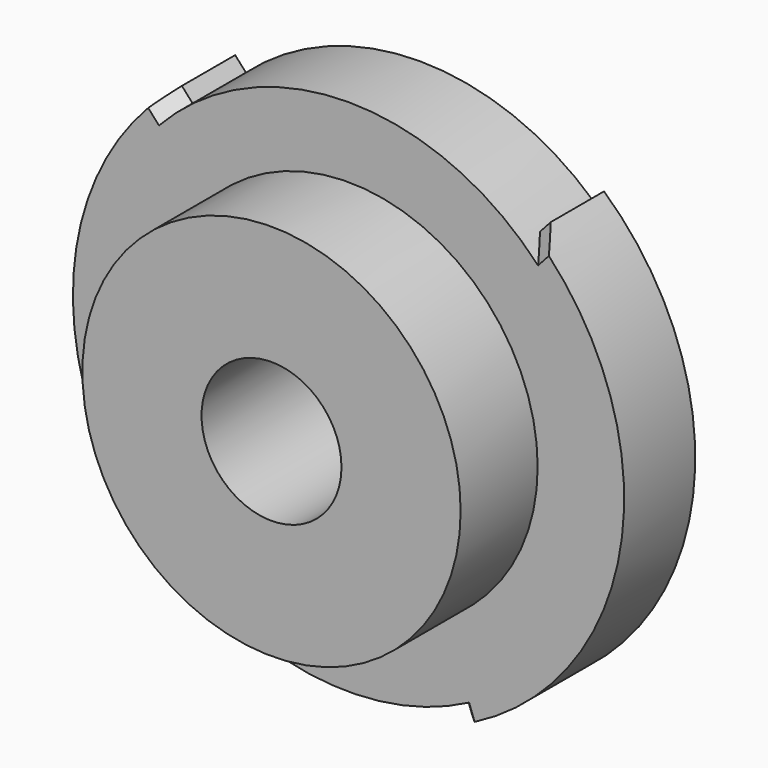
from build123d import *

# Parameters (mm, degrees)
F0_R      = 236.347
F1_DEPTH  = 76.2
F2_R      = 162.179
F3_DEPTH  = 82.55
F5_DEPTH  = 139.7
F6_SIZE   = 19.05
F7_SIZE   = 19.05
F8_SIZE   = 19.05
F9_SIZE   = 19.05
F10_R     = 40
F11_DEPTH = 10
F12_R     = 60
F13_DEPTH = 550


with BuildPart() as f1:
    # F0 (on Front) → F1 (new body)
    with BuildSketch(Plane.XZ):
        Circle(F0_R)
    extrude(amount=F1_DEPTH)

    # F2 (on face) → F3 (join)
    with BuildSketch(Plane.XZ.offset(76.2)):
        Circle(F2_R)
    extrude(amount=F3_DEPTH)

    # F4 (on face) → F5 (cut)
    with BuildSketch(Plane(origin=(0, 0, 0), x_dir=(-1, 0, 0), z_dir=(0, 1, 0))):
        with BuildLine():
            Line((-184.812798, 205.255406), (-148.926726, 165.399886))
            ThreePointArc((-148.926726, 165.399886), (0, 222.5675), (148.926726, 165.399886))
            Line((148.926726, 165.399886), (183.385925, 203.670703))
            Line((183.385925, 203.670703), (0, 288.642466))
            Line((0, 288.642466), (-184.812798, 205.255406))
        make_face()
        with BuildLine():
            Line((138.952692, -240.673122), (111.28375, -192.749109))
            ThreePointArc((111.28375, -192.749109), (14.086917, -222.121253), (-86.041814, -205.263485))
            Line((-86.041814, -205.263485), (-123.598595, -308.449893))
            Line((-123.598595, -308.449893), (23.055677, -307.586295))
            Line((23.055677, -307.586295), (138.952692, -240.673122))
        make_face()
    extrude(amount=-F5_DEPTH, mode=Mode.SUBTRACT)

    # F6
    f6_edges = [f1.edges().sort_by_distance(p)[0] for p in [
        (88.400791, -76.2, -211.744722),
    ]]
    chamfer(f6_edges, length=F6_SIZE)

    # F7
    f7_edges = [f1.edges().sort_by_distance(p)[0] for p in [
        (-114.728625, -76.2, -198.715808),
    ]]
    chamfer(f7_edges, length=F7_SIZE)

    # F8
    f8_edges = [f1.edges().sort_by_distance(p)[0] for p in [
        (153.536869, -76.2, 170.519968),
    ]]
    chamfer(f8_edges, length=F8_SIZE)

    # F9
    f9_edges = [f1.edges().sort_by_distance(p)[0] for p in [
        (-153.536869, -76.2, 170.519968),
    ]]
    chamfer(f9_edges, length=F9_SIZE)

    # F10 (on face) → F11 (cut)
    with BuildSketch(Plane(origin=(0, 0, 0), x_dir=(-1, 0, 0), z_dir=(0, 1, 0))):
        with Locations((0, 150)):
            Circle(F10_R)
        with Locations((-150, 0)):
            Circle(F10_R)
        with Locations((0, -150)):
            Circle(F10_R)
        with Locations((150, 0)):
            Circle(F10_R)
    extrude(amount=-F11_DEPTH, mode=Mode.SUBTRACT)

    # F12 (on face) → F13 (cut)
    with BuildSketch(Plane.XZ.offset(158.75)):
        Circle(F12_R)
    extrude(amount=-F13_DEPTH, mode=Mode.SUBTRACT)


solid = f1.part
